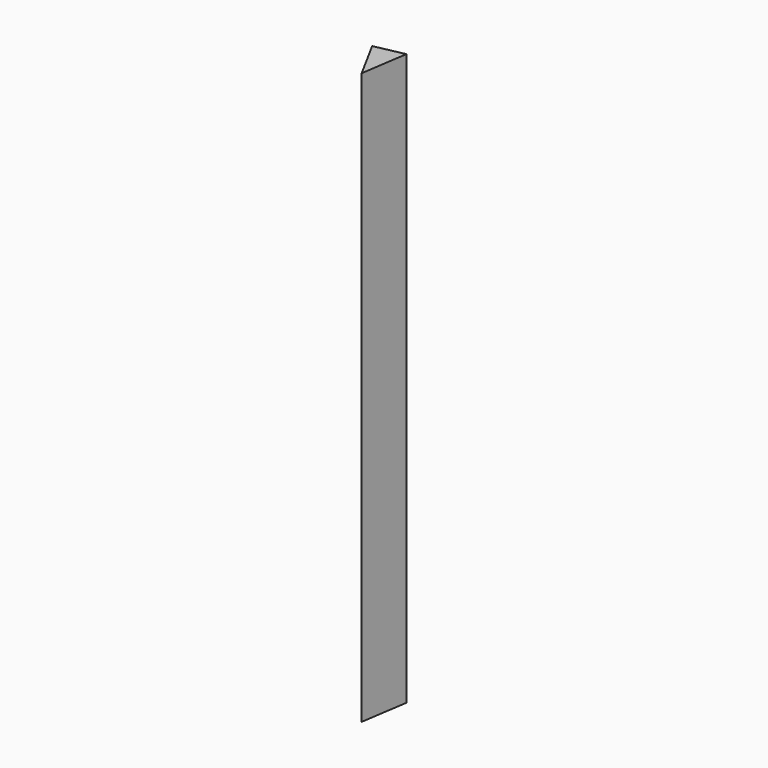
from build123d import *

# Parameters (mm, degrees)
F1_DEPTH = 859.896859


with BuildPart() as f1:
    # F0 (on Top) → F1 (new body)
    with BuildSketch(Plane.XY):
        Polygon((-26.14779, 38.130596), (-70.363641, 28.994128), (-36.819346, -32.832459), align=None)
    extrude(amount=-F1_DEPTH)


solid = f1.part
